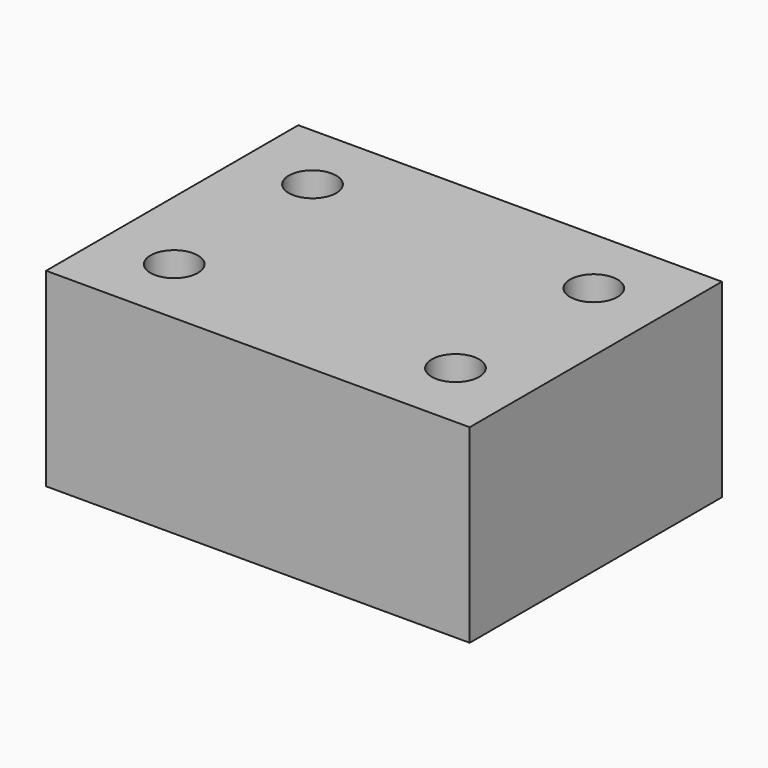
from build123d import *

# Parameters (mm, degrees)
F0_W     = 56.6928
F0_H     = 42.1894
F1_DEPTH = 25.4
F3_D     = 6.35


with BuildPart() as f1:
    # F0 (on Top) → F1 (new body)
    with BuildSketch(Plane.XY):
        with Locations((28.3464, 21.0947)):
            Rectangle(F0_W, F0_H)
    extrude(amount=F1_DEPTH)

    # F3 (through all)
    with Locations(Plane.XY.offset(25.4)):
        with Locations((9.525, 9.525), (9.525, 32.6644), (47.1678, 32.6644), (47.1678, 9.525)):
            Hole(F3_D / 2)


solid = f1.part
